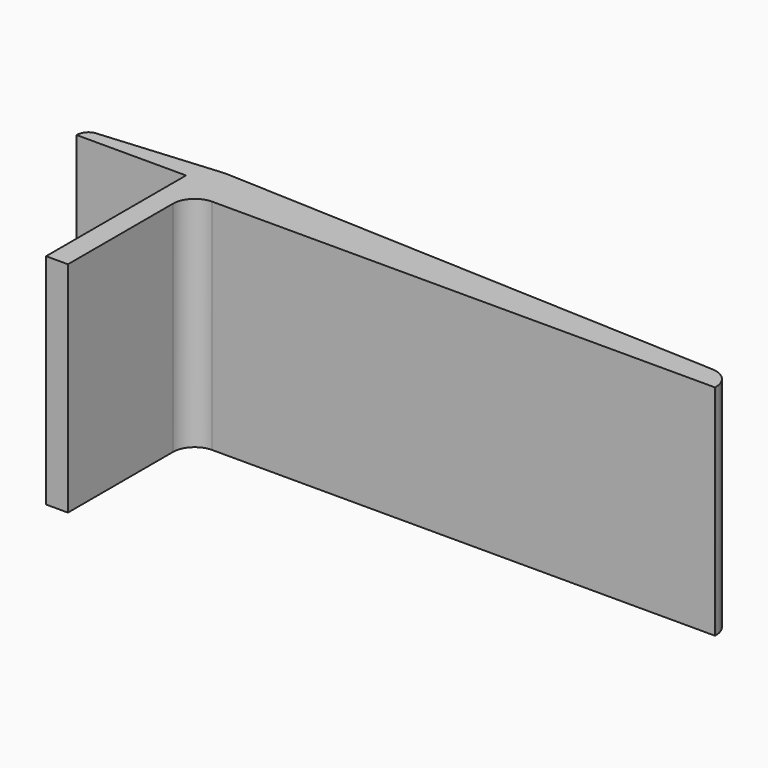
from build123d import *

# Parameters (mm, degrees)
F1_DEPTH = 20
F2_R     = 2
F3_R     = 1
F4_R     = 5


with BuildPart() as f1:
    # F0 (on Top) → F1 (new body)
    with BuildSketch(Plane.XY):
        Polygon((0, 16), (0, 0), (2, 0), (2, 14), (50, 14), (50, 16), (2, 18), (-10, 17), (-10, 16), align=None)
    extrude(amount=F1_DEPTH)

    # F2
    f2_edges = [f1.edges().sort_by_distance(p)[0] for p in [
        (50, 16, 10),
        (2, 14, 10),
    ]]
    fillet(f2_edges, radius=F2_R)

    # F3
    f3_edges = [f1.edges().sort_by_distance(p)[0] for p in [
        (-10, 17, 10),
    ]]
    fillet(f3_edges, radius=F3_R)

    # F4
    f4_edges = [f1.edges().sort_by_distance(p)[0] for p in [
        (2, 18, 10),
    ]]
    fillet(f4_edges, radius=F4_R)


solid = f1.part
